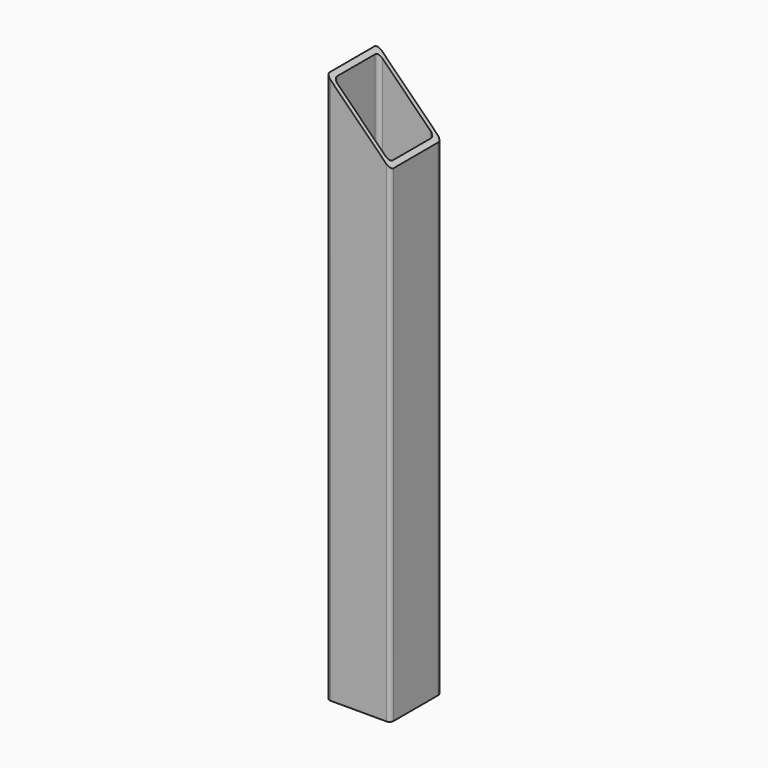
from build123d import *

# Parameters (mm, degrees)
F1_DEPTH      = 438.404
F3_DEPTH      = 25.4
F3_DEPTH_BACK = 25.4


with BuildPart() as f1:
    # F0 (on Top) → F1 (new body)
    with BuildSketch(Plane.XY):
        with BuildLine():
            ThreePointArc((25.4, 22.225), (24.470064, 24.470064), (22.225, 25.4))
            Line((22.225, 25.4), (-22.225, 25.4))
            ThreePointArc((-22.225, 25.4), (-24.470064, 24.470064), (-25.4, 22.225))
            Line((-25.4, 22.225), (-25.4, -22.225))
            ThreePointArc((-25.4, -22.225), (-24.470064, -24.470064), (-22.225, -25.4))
            Line((-22.225, -25.4), (22.225, -25.4))
            ThreePointArc((22.225, -25.4), (24.470064, -24.470064), (25.4, -22.225))
            Line((25.4, -22.225), (25.4, 22.225))
        make_face()
        with BuildLine():
            Line((-19.05, 22.225), (19.05, 22.225))
            ThreePointArc((19.05, 22.225), (21.295064, 21.295064), (22.225, 19.05))
            Line((22.225, 19.05), (22.225, -19.05))
            ThreePointArc((22.225, -19.05), (21.295064, -21.295064), (19.05, -22.225))
            Line((19.05, -22.225), (-19.05, -22.225))
            ThreePointArc((-19.05, -22.225), (-21.295064, -21.295064), (-22.225, -19.05))
            Line((-22.225, -19.05), (-22.225, 19.05))
            ThreePointArc((-22.225, 19.05), (-21.295064, 21.295064), (-19.05, 22.225))
        make_face(mode=Mode.SUBTRACT)
    extrude(amount=F1_DEPTH)

    # F2 (on Front) → F3 (cut, two sides)
    with BuildSketch(Plane.XZ) as f3_sk:
        Polygon((25.4, 387.604), (25.4, 438.404), (-25.4, 438.404), align=None)
    extrude(amount=F3_DEPTH, mode=Mode.SUBTRACT)
    extrude(f3_sk.sketch, amount=-F3_DEPTH_BACK, mode=Mode.SUBTRACT)


solid = f1.part
